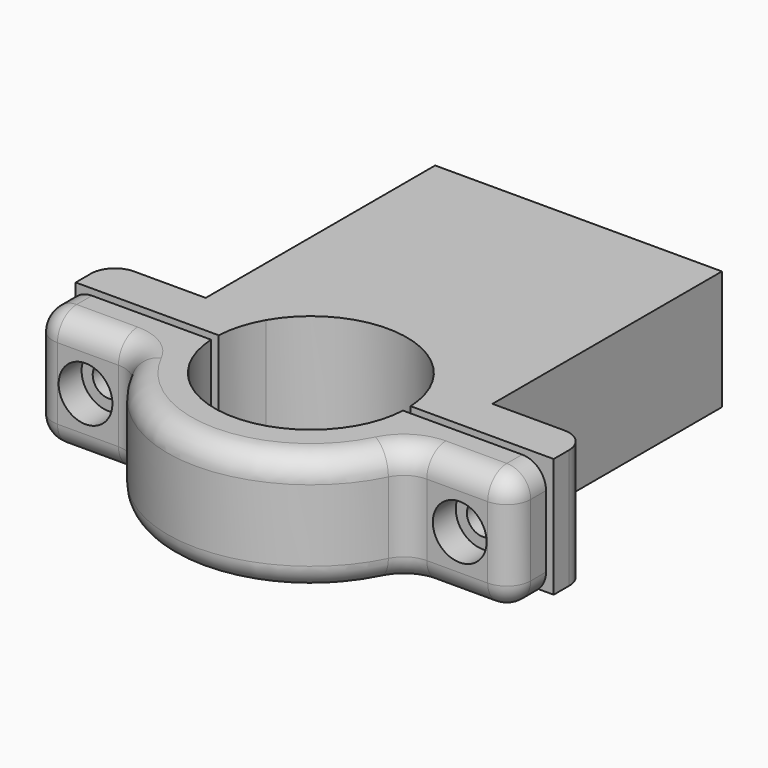
from build123d import *

# Parameters (mm, degrees)
F1_DEPTH             = 25
F4_D                 = 6.6
F4_CBORE_D           = 11.25
F4_CBORE_DEPTH       = 6
F4_ON_F3_D           = 6.6
F4_ON_F3_CBORE_D     = 11.25
F4_ON_F3_CBORE_DEPTH = 6
F5_R                 = 3.3
F6_DEPTH             = 6
F7_R                 = 6
F8_W                 = 100
F8_H                 = 25
F9_DEPTH             = 1
F10_R                = 5
F11_R                = 5


with BuildPart() as f1:
    # F0 (on Top) → F1 (new body)
    with BuildSketch(Plane.XY):
        with BuildLine():
            ThreePointArc((-28.2842712475, 10), (0, 30), (28.2842712475, 10))
            Line((28.2842712475, 10), (30, 10))
            Line((30, 10), (30, 70))
            Line((30, 70), (-30, 70))
            Line((-30, 70), (-30, 10))
            Line((-30, 10), (-28.2842712475, 10))
        make_face()
        with BuildLine():
            Line((30, 10), (30, 0))
            ThreePointArc((30, 0), (29.5679567896, -5.0730593618), (28.2842712475, -10))
            Line((28.2842712475, -10), (50, -10))
            Line((50, -10), (50, 10))
            Line((50, 10), (30, 10))
        make_face()
        with BuildLine():
            ThreePointArc((-17.4358825415, 10), (0, 20.1), (17.4358825415, 10))
            Line((17.4358825415, 10), (28.2842712475, 10))
            ThreePointArc((28.2842712475, 10), (0, 30), (-28.2842712475, 10))
            Line((-28.2842712475, 10), (-17.4358825415, 10))
        make_face()
        with BuildLine():
            Line((-30, 0), (-20.1, 0))
            ThreePointArc((-20.1, 0), (-19.4225544031, 5.1743966275), (-17.4358825415, 10))
            Line((-17.4358825415, 10), (-28.2842712475, 10))
            ThreePointArc((-28.2842712475, 10), (-29.5679567896, 5.0730593618), (-30, 0))
        make_face()
        with BuildLine():
            ThreePointArc((-17.4358825415, -10), (-19.4225544031, -5.1743966275), (-20.1, 0))
            Line((-20.1, 0), (-30, 0))
            ThreePointArc((-30, 0), (-29.5679567896, -5.0730593618), (-28.2842712475, -10))
            Line((-28.2842712475, -10), (-17.4358825415, -10))
        make_face()
        with BuildLine():
            Line((28.2842712475, -10), (17.4358825415, -10))
            ThreePointArc((17.4358825415, -10), (0, -20.1), (-17.4358825415, -10))
            Line((-17.4358825415, -10), (-28.2842712475, -10))
            ThreePointArc((-28.2842712475, -10), (0, -30), (28.2842712475, -10))
        make_face()
        with BuildLine():
            Line((30, 0), (20.1, 0))
            ThreePointArc((20.1, 0), (19.4225544031, -5.1743966275), (17.4358825415, -10))
            Line((17.4358825415, -10), (28.2842712475, -10))
            ThreePointArc((28.2842712475, -10), (29.5679567896, -5.0730593618), (30, 0))
        make_face()
        with BuildLine():
            ThreePointArc((17.4358825415, 10), (19.4225544031, 5.1743966275), (20.1, 0))
            Line((20.1, 0), (30, 0))
            ThreePointArc((30, 0), (29.5679567896, 5.0730593618), (28.2842712475, 10))
            Line((28.2842712475, 10), (17.4358825415, 10))
        make_face()
        with BuildLine():
            ThreePointArc((-28.2842712475, -10), (-29.5679567896, -5.0730593618), (-30, 0))
            Line((-30, 0), (-30, 10))
            Line((-30, 10), (-50, 10))
            Line((-50, 10), (-50, -10))
            Line((-50, -10), (-28.2842712475, -10))
        make_face()
        with BuildLine():
            Line((-30, 10), (-30, 0))
            ThreePointArc((-30, 0), (-29.5679567896, 5.0730593618), (-28.2842712475, 10))
            Line((-28.2842712475, 10), (-30, 10))
        make_face()
        with BuildLine():
            ThreePointArc((28.2842712475, 10), (29.5679567896, 5.0730593618), (30, 0))
            Line((30, 0), (30, 10))
            Line((30, 10), (28.2842712475, 10))
        make_face()
    extrude(amount=F1_DEPTH)

    # F4 (through all)
    with Locations(Plane.XZ.offset(10)):
        with Locations((-39.1421356237, 12.5)):
            CounterBoreHole(F4_D / 2, F4_CBORE_D / 2, F4_CBORE_DEPTH)

    # F4 on F3 (through all)
    with Locations(Plane.XZ.offset(10)):
        with Locations((39.1421356237, 12.5)):
            CounterBoreHole(F4_ON_F3_D / 2, F4_ON_F3_CBORE_D / 2, F4_ON_F3_CBORE_DEPTH)

    # F5 (on face) → F6 (cut)
    with BuildSketch(Plane(origin=(0, 10, 0), x_dir=(-1, 0, 0), z_dir=(0, 1, 0))):
        Polygon((-34.0585892916, 12.5), (-36.5835892916, 16.8734282891), (-41.6335892916, 16.8734282891), (-44.1585892916, 12.5), (-41.6335892916, 8.1265717109), (-36.5835892916, 8.1265717109), align=None)
        Polygon((44.1921356237, 12.5), (41.6671356237, 16.8734282891), (36.6171356237, 16.8734282891), (34.0921356237, 12.5), (36.6171356237, 8.1265717109), (41.6671356237, 8.1265717109), align=None)
        with Locations((39.1421356237, 12.5)):
            Circle(F5_R, mode=Mode.SUBTRACT)
    extrude(amount=-F6_DEPTH, mode=Mode.SUBTRACT)

    # F7
    f7_edges = [f1.edges().sort_by_distance(p)[0] for p in [
        (28.284271, -10, 12.5),
        (-28.284271, -10, 12.5),
    ]]
    fillet(f7_edges, radius=F7_R)

    # F8 (on Front) → F9 (cut, symmetric)
    with BuildSketch(Plane.XZ):
        with Locations((0, 12.5)):
            Rectangle(F8_W, F8_H)
    extrude(amount=F9_DEPTH, both=True, mode=Mode.SUBTRACT)

    # F10
    f10_edges = [f1.edges().sort_by_distance(p)[0] for p in [
        (0, -30, 0),
        (-26.874192, -13.333333, 12.5),
        (26.874192, -13.333333, 12.5),
        (0, -30, 25),
    ]]
    fillet(f10_edges, radius=F10_R)

    # F11
    f11_edges = [f1.edges().sort_by_distance(p)[0] for p in [
        (50, -10, 12.5),
        (50, 10, 12.5),
        (-50, -10, 12.5),
        (-50, 10, 12.5),
    ]]
    fillet(f11_edges, radius=F11_R)


solid = f1.part
